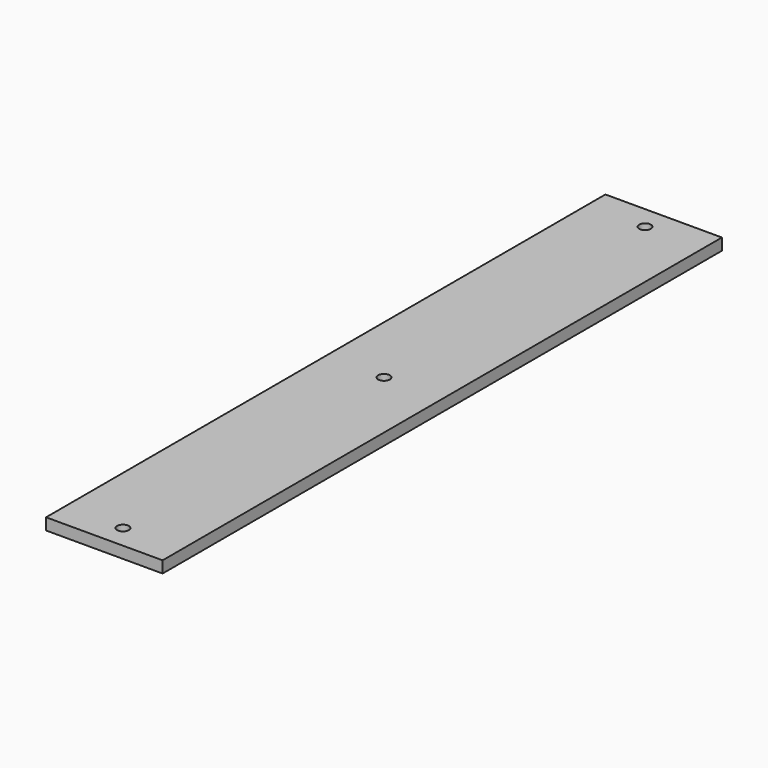
from build123d import *

# Parameters (mm, degrees)
F0_W     = 100
F0_H     = 600
F1_DEPTH = 10
F2_R     = 5
F3_DEPTH = 25


with BuildPart() as f1:
    # F0 (on Top) → F1 (new body)
    with BuildSketch(Plane.XY):
        Rectangle(F0_W, F0_H)
    extrude(amount=F1_DEPTH)

    # F2 (on face) → F3 (cut)
    with BuildSketch(Plane.XY.offset(10)):
        with Locations((0, 280)):
            Circle(F2_R)
        Circle(F2_R)
        with Locations((0, -280)):
            Circle(F2_R)
    extrude(amount=-F3_DEPTH, mode=Mode.SUBTRACT)


solid = f1.part
